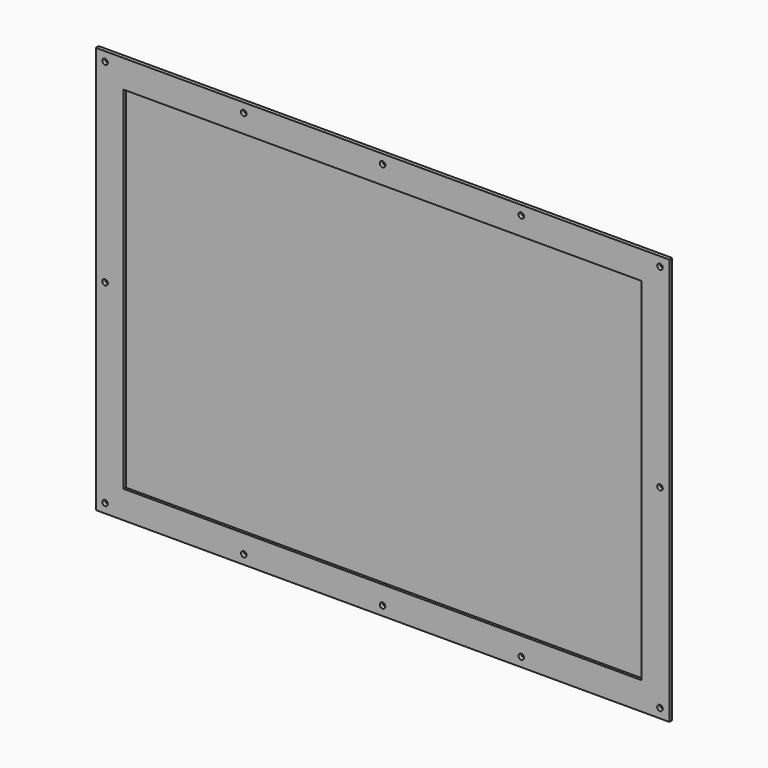
from build123d import *

# Parameters (mm, degrees)
F0_W     = 310
F0_H     = 220
F0_W_2   = 280
F0_H_2   = 190
F1_DEPTH = 2
F2_D     = 3
F3_DEPTH = 0.5


with BuildPart() as f1:
    # F0 (on Front) → F1 (new body)
    with BuildSketch(Plane.XZ):
        Rectangle(F0_W, F0_H)
        Rectangle(F0_W_2, F0_H_2, mode=Mode.SUBTRACT)
    extrude(amount=F1_DEPTH)

    # F2 (through all)
    with Locations(Plane(origin=(0, 0, 0), x_dir=(1, 0, 0), z_dir=(0, 1, 0))):
        with Locations((-150, 105), (-75, 105), (0, 105), (75, 105), (150, 105), (150, 0), (150, -105), (75, -105), (0, -105), (-75, -105), (-150, -105), (-150, 0)):
            Hole(F2_D / 2)

    # F0 (on Front) → F3 (join)
    with BuildSketch(Plane.XZ):
        Rectangle(F0_W_2, F0_H_2)
    extrude(amount=F3_DEPTH)


solid = f1.part
